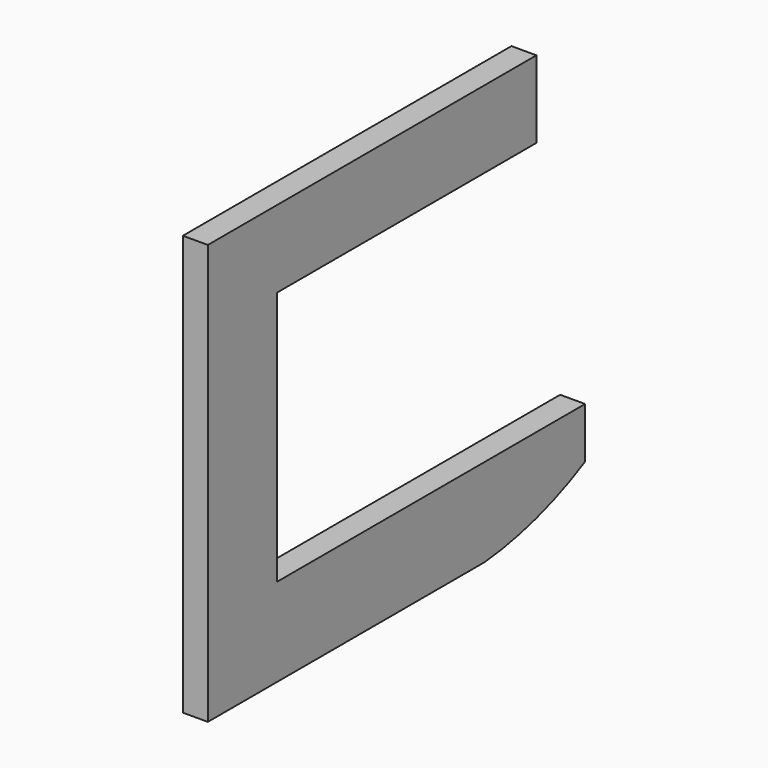
from build123d import *

# Parameters (mm, degrees)
F1_DEPTH = 4


with BuildPart() as f1:
    # F0 (on Right) → F1 (new body)
    with BuildSketch(Plane.YZ):
        with BuildLine():
            Line((0, 67.3), (0, 0))
            Line((0, 0), (55.40454, 0))
            ThreePointArc((55.40454, 0), (65.797372, 1.979846), (75.582232, 6.003182))
            Line((75.582232, 6.003182), (75.582232, 14.138489))
            Line((75.582232, 14.138489), (13.826331, 14.138489))
            Line((13.826331, 14.138489), (13.826331, 54.936416))
            Line((13.826331, 54.936416), (65.826331, 54.936416))
            Line((65.826331, 54.936416), (65.826331, 67.3))
            Line((65.826331, 67.3), (0, 67.3))
        make_face()
    extrude(amount=F1_DEPTH)


solid = f1.part
